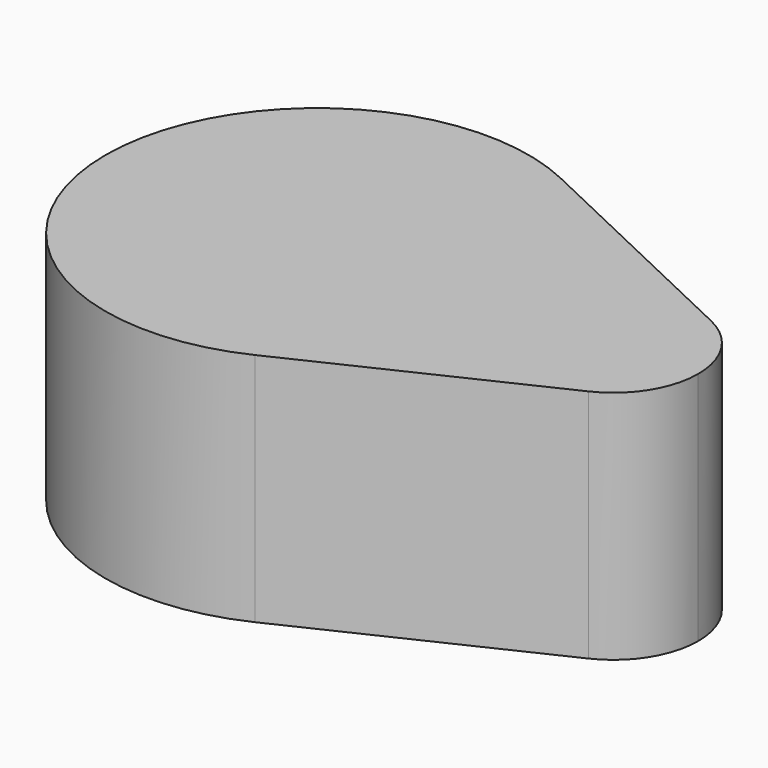
from build123d import *

# Parameters (mm, degrees)
F1_DEPTH = 6.35


with BuildPart() as f1:
    # F0 (on Top) → F1 (new body)
    with BuildSketch(Plane.XY):
        with BuildLine():
            Line((8.980714, 2.065419), (2.449286, 5.163548))
            ThreePointArc((2.449286, 5.163548), (-3.054796, 4.830057), (-5.715, 0))
            ThreePointArc((-5.715, 0), (-3.054796, -4.830057), (2.449286, -5.163548))
            Line((2.449286, -5.163548), (8.980714, -2.065419))
            ThreePointArc((8.980714, -2.065419), (9.933023, -1.221918), (10.287, 0))
            ThreePointArc((10.287, 0), (9.933023, 1.221918), (8.980714, 2.065419))
        make_face()
    extrude(amount=-F1_DEPTH)


solid = f1.part
